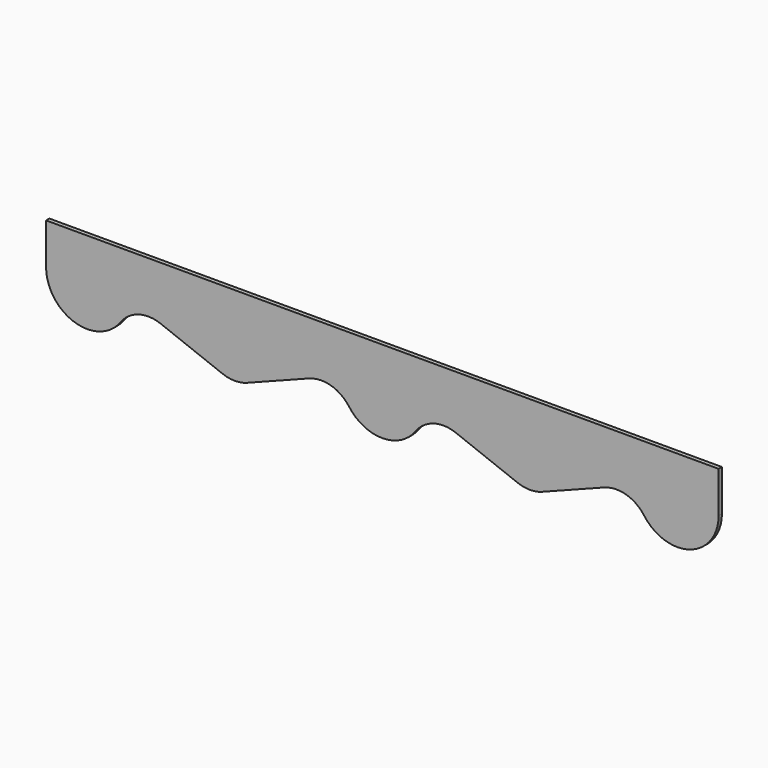
from build123d import *

# Parameters (mm, degrees)
F1_DEPTH = 3


with BuildPart() as f1:
    # F0 (on Front) → F1 (new body)
    with BuildSketch(Plane.XZ):
        with BuildLine():
            Line((245, 30), (-245, 30))
            Line((-245, 30), (-245, 0))
            ThreePointArc((-245, 0), (-224.293242, -28.524299), (-190.757623, -17.672214))
            ThreePointArc((-190.757623, -17.672214), (-177.603175, -8.412973), (-161.530789, -9.084856))
            Line((-161.530789, -9.084856), (-116.524853, -26.506509))
            ThreePointArc((-116.524853, -26.506509), (-107.5, -28.192306), (-98.475147, -26.506509))
            Line((-98.475147, -26.506509), (-53.469211, -9.084856))
            ThreePointArc((-53.469211, -9.084856), (-37.396825, -8.412973), (-24.242377, -17.672214))
            ThreePointArc((-24.242377, -17.672214), (0, -30), (24.242377, -17.672214))
            ThreePointArc((24.242377, -17.672214), (37.396825, -8.412973), (53.469211, -9.084856))
            Line((53.469211, -9.084856), (98.475147, -26.506509))
            ThreePointArc((98.475147, -26.506509), (107.5, -28.192306), (116.524853, -26.506509))
            Line((116.524853, -26.506509), (161.530789, -9.084856))
            ThreePointArc((161.530789, -9.084856), (177.603175, -8.412973), (190.757623, -17.672214))
            ThreePointArc((190.757623, -17.672214), (224.293242, -28.524299), (245, 0))
            Line((245, 0), (245, 30))
        make_face()
    extrude(amount=F1_DEPTH)


solid = f1.part
